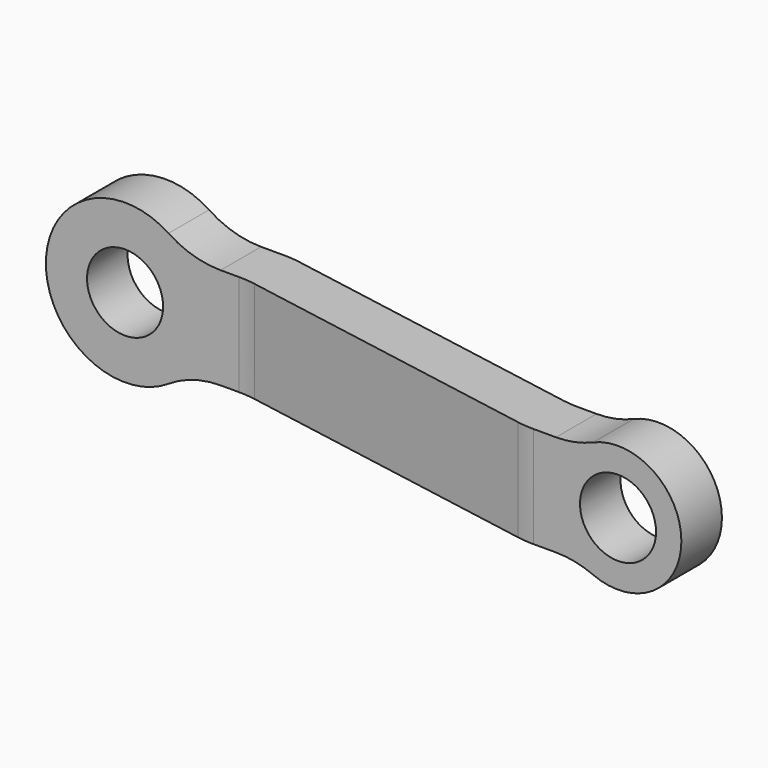
from build123d import *

# Parameters (mm, degrees)
F0_R     = 152.4
F1_DEPTH = 635
F2_W     = 560.6032549905
F2_H     = 203.2
F2_W_2   = 2.5960083008
F3_DEPTH = 317.5
F4_R     = 381


with BuildPart() as f1:
    # F0 (on Front) → F1 (new body)
    with BuildSketch(Plane.XZ):
        with BuildLine():
            ThreePointArc((243.9590334462, -203.2), (298.5491945385, -108.0491945385), (317.5, 0))
            ThreePointArc((317.5, 0), (298.5491945385, 108.0491945385), (243.9590334462, 203.2))
            ThreePointArc((243.9590334462, 203.2), (-317.5, 0), (243.9590334462, -203.2))
        make_face()
        Circle(F0_R, mode=Mode.SUBTRACT)
        with BuildLine():
            ThreePointArc((243.9590334462, 203.2), (298.5491945385, 108.0491945385), (317.5, 0))
            ThreePointArc((317.5, 0), (298.5491945385, -108.0491945385), (243.9590334462, -203.2))
            Line((243.9590334462, -203.2), (2006.6, -203.2))
            ThreePointArc((2006.6, -203.2), (1905, 0), (2006.6, 203.2))
            Line((2006.6, 203.2), (243.9590334462, 203.2))
        make_face()
        with BuildLine():
            ThreePointArc((2413, 0), (2272.592253257, 227.184506514), (2006.6, 203.2))
            ThreePointArc((2006.6, 203.2), (1905, 0), (2006.6, -203.2))
            ThreePointArc((2006.6, -203.2), (2272.592253257, -227.184506514), (2413, 0))
        make_face()
        with Locations((2159, 0)):
            Circle(F0_R, mode=Mode.SUBTRACT)
    extrude(amount=F1_DEPTH)

    # F2 (on Top) → F3 (intersect, symmetric)
    with BuildSketch(Plane.XY):
        with Locations((-36.342594049, -101.6)):
            Rectangle(F2_W, F2_H)
        Polygon((508, 0), (243.9590334462, 0), (243.9590334462, -203.2), (490.2223035715, -203.2), (1786.6773275361, -431.8), (2413, -431.8), (2413, -228.6), (1804.4550239646, -228.6), align=None)
        with Locations((2414.2980041504, -330.2)):
            Rectangle(F2_W_2, F2_H)
    extrude(amount=F3_DEPTH, both=True, mode=Mode.INTERSECT)

    # F4
    f4_edges = [f1.edges().sort_by_distance(p)[0] for p in [
        (508, 0, 0),
        (1804.455024, -228.6, 0),
        (490.222304, -203.2, 0),
        (1786.677328, -431.8, 0),
        (243.959033, -101.6, 203.2),
        (2006.6, -330.2, 203.2),
        (2006.6, -330.2, -203.2),
        (243.959033, -101.6, -203.2),
    ]]
    fillet(f4_edges, radius=F4_R)


solid = f1.part
